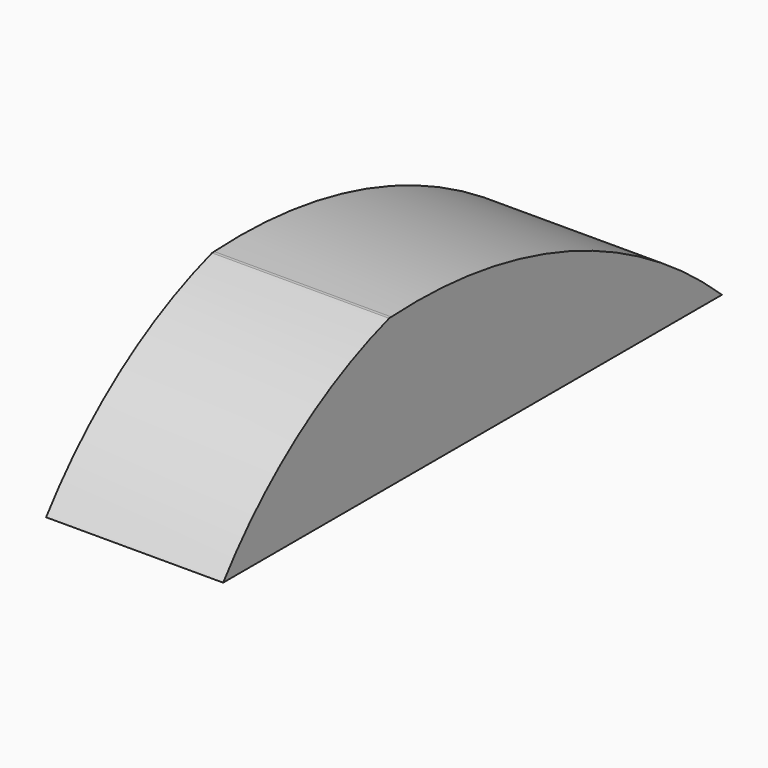
from build123d import *

# Parameters (mm, degrees)
F0_W     = 225.349568
F0_H     = 86.215466
F1_DEPTH = 64
F3_DEPTH = 64.001


with BuildPart() as f1:
    # F0 (on Right) → F1 (new body)
    with BuildSketch(Plane.YZ):
        with Locations((37.713457, -43.107733)):
            Rectangle(F0_W, F0_H)
    extrude(amount=-F1_DEPTH)

    # F2 (on face) → F3 (cut, through all)
    with BuildSketch(Plane.YZ):
        with BuildLine():
            ThreePointArc((0, 0), (-0.934769, -16.305887), (0.992355, -32.524455))
            ThreePointArc((0.992355, -32.524455), (81.140374, -44.205059), (150.388241, -86.215466))
            Line((150.388241, -86.215466), (150.388241, 0))
            Line((150.388241, 0), (0, 0))
        make_face()
        with BuildLine():
            ThreePointArc((-74.961327, -86.215466), (-41.67947, -53.530267), (0, -32.582093))
            ThreePointArc((0, -32.582093), (0.496142, -32.552668), (0.992355, -32.524455))
            ThreePointArc((0.992355, -32.524455), (-0.934769, -16.305887), (0, 0))
            Line((0, 0), (-74.961327, 0))
            Line((-74.961327, 0), (-74.961327, -86.215466))
        make_face()
    extrude(amount=-F3_DEPTH, mode=Mode.SUBTRACT)


solid = f1.part
